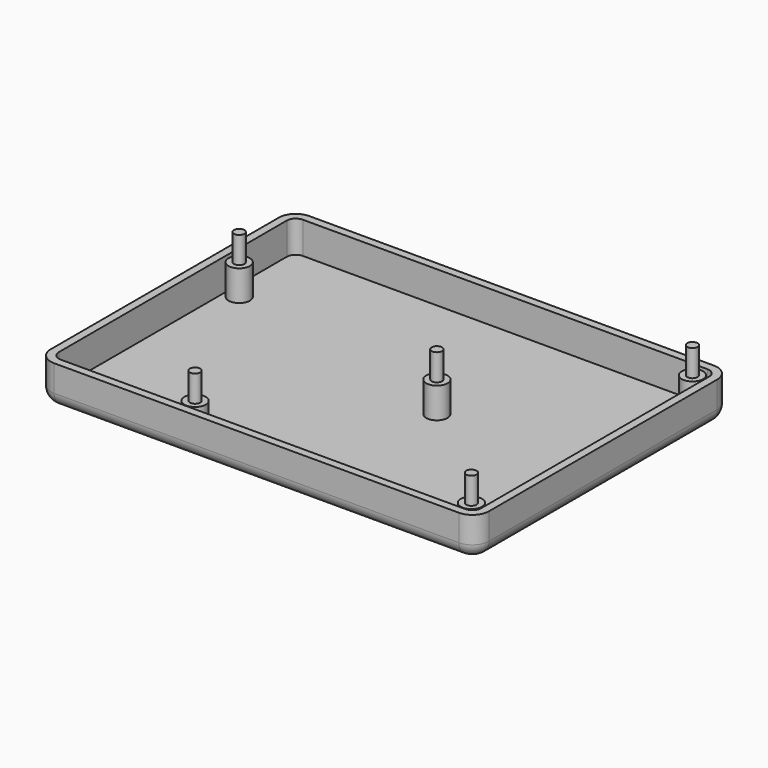
from build123d import *

# Parameters (mm, degrees)
F1_DEPTH = 15
F2_T     = -3
F3_R     = 5.08
F4_R     = 4
F5_DEPTH = 11.5
F6_R     = 1.95
F7_DEPTH = 10


with BuildPart() as f1:
    # F0 (on Top) → F1 (new body)
    with BuildSketch(Plane.XY):
        with BuildLine():
            ThreePointArc((-83.334517, -38.901611), (-81.474645, -43.391739), (-76.984517, -45.251611))
            Line((-76.984517, -45.251611), (75.315483, -45.251611))
            ThreePointArc((75.315483, -45.251611), (79.805611, -43.391739), (81.665483, -38.901611))
            Line((81.665483, -38.901611), (81.665483, 68.398389))
            ThreePointArc((81.665483, 68.398389), (79.805611, 72.888517), (75.315483, 74.748389))
            Line((75.315483, 74.748389), (-76.984517, 74.748389))
            ThreePointArc((-76.984517, 74.748389), (-81.474645, 72.888517), (-83.334517, 68.398389))
            Line((-83.334517, 68.398389), (-83.334517, -38.901611))
        make_face()
    extrude(amount=F1_DEPTH)

    # F2
    f2_openings = [f1.faces().sort_by_distance(p)[0] for p in [
        (-0.834517, 14.748389, 15),
    ]]
    offset(amount=F2_T, openings=f2_openings)

    # F3
    f3_edges = [f1.edges().sort_by_distance(p)[0] for p in [
        (-81.474645, 72.888517, 0),
    ]]
    fillet(f3_edges, radius=F3_R)

    # F4 (on face) → F5 (join)
    with BuildSketch(Plane.XY.offset(3)):
        with Locations((73.665483, -37.251611)):
            Circle(F4_R)
        with Locations((73.665483, 66.748389)):
            Circle(F4_R)
        with Locations((16.665483, 17.748389)):
            Circle(F4_R)
        with Locations((-75.334517, 39.748389)):
            Circle(F4_R)
        with Locations((-30.334517, -37.251611)):
            Circle(F4_R)
    extrude(amount=F5_DEPTH)

    # F6 (on face) → F7 (join)
    with BuildSketch(Plane.XY.offset(14.5)):
        with Locations((73.665483, -37.251611)):
            Circle(F6_R)
        with Locations((16.665483, 17.748389)):
            Circle(F6_R)
        with Locations((73.665483, 66.748389)):
            Circle(F6_R)
        with Locations((-30.334517, -37.251611)):
            Circle(F6_R)
        with Locations((-75.334517, 39.748389)):
            Circle(F6_R)
    extrude(amount=F7_DEPTH)


solid = f1.part
